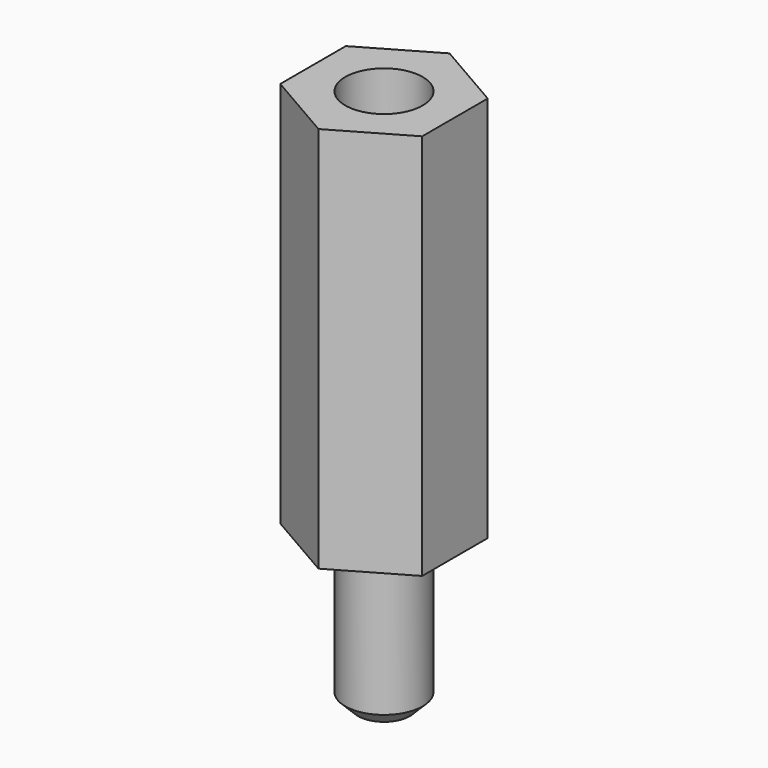
from build123d import *

# Parameters (mm, degrees)
PAD_DEPTH       = 15
SKETCH022_R     = 1.5
PAD001_DEPTH    = 6
SKETCH023_R     = 1.5
POCKET009_DEPTH = 8.5
CHAMFER005_SIZE = 1.5
CHAMFER006_SIZE = 0.5


with BuildPart() as part:
    # Sketch021 → Pad (new body)
    with BuildSketch(Plane.XY):
        Polygon((-2.75, -1.587713), (-2.75, 1.587713), (0, 3.175426), (2.75, 1.587713), (2.75, -1.587713), (0, -3.175426), align=None)
    extrude(amount=PAD_DEPTH)

    # Sketch022 (on Face7 of Pad) → Pad001 (new body)
    with BuildSketch(Plane(origin=(0, 0, 0), x_dir=(1, 0, 0), z_dir=(0, 0, -1))):
        Circle(SKETCH022_R)
    extrude(amount=PAD001_DEPTH)

    # Sketch023 (on Face5 of Pad001) → Pocket009 (cut)
    with BuildSketch(Plane.XY.offset(15)):
        Circle(SKETCH023_R)
    extrude(amount=-POCKET009_DEPTH, mode=Mode.SUBTRACT)

    # Chamfer005
    chamfer005_edges = [part.edges().sort_by_distance(p)[0] for p in [
        (-1.5, 0, 6.5),
    ]]
    chamfer(chamfer005_edges, length=CHAMFER005_SIZE)

    # Chamfer006
    chamfer006_edges = [part.edges().sort_by_distance(p)[0] for p in [
        (-1.5, 0, -6),
    ]]
    chamfer(chamfer006_edges, length=CHAMFER006_SIZE)


solid = part.part
